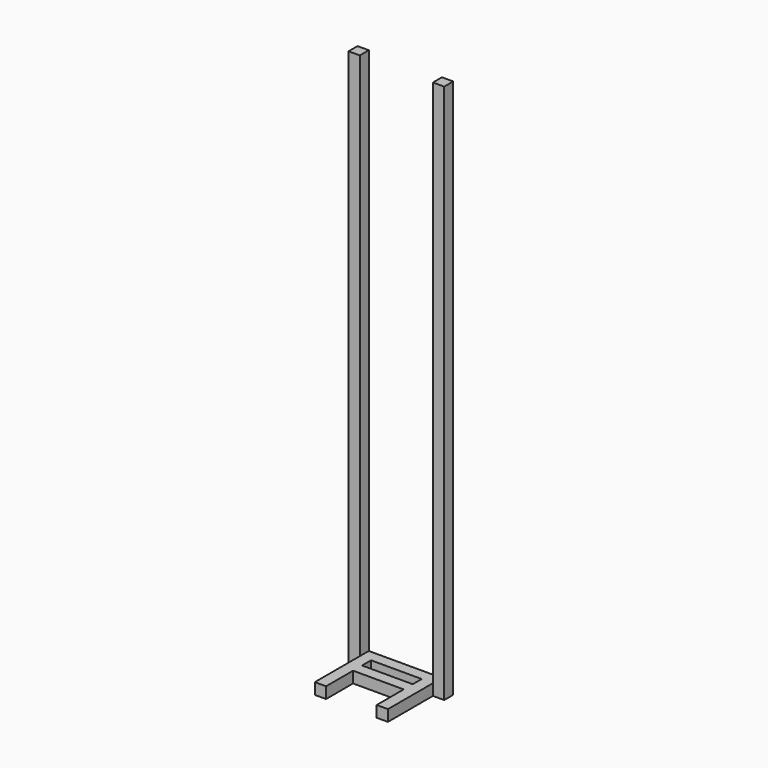
from build123d import *

# Parameters (mm, degrees)
F1_DEPTH = 25.4
F2_W     = 25.4
F2_H     = 25.4
F3_DEPTH = 127
F4_W     = 25.4
F4_H     = 25.4
F5_DEPTH = 114.3


with BuildPart() as f1:
    # F0 (on Front) → F1 (new body)
    with BuildSketch(Plane.XZ):
        Polygon((107.95, -584.2), (107.95, 609.6), (82.55, 609.6), (82.55, -584.2), (-82.55, -584.2), (-82.55, 609.6), (-107.95, 609.6), (-107.95, -584.2), (-107.95, -609.6), (-82.55, -609.6), (82.55, -609.6), (107.95, -609.6), align=None)
    extrude(amount=F1_DEPTH)

    # F2 (on face) → F3 (join)
    with BuildSketch(Plane.XZ.offset(25.4)):
        with Locations((-69.85, -596.9)):
            Rectangle(F2_W, F2_H)
        with Locations((69.85, -596.9)):
            Rectangle(F2_W, F2_H)
    extrude(amount=F3_DEPTH)

    # F4 (on face) → F5 (join)
    with BuildSketch(Plane.YZ.offset(-57.15)):
        with Locations((-63.5, -596.9)):
            Rectangle(F4_W, F4_H)
    extrude(amount=F5_DEPTH)


solid = f1.part
